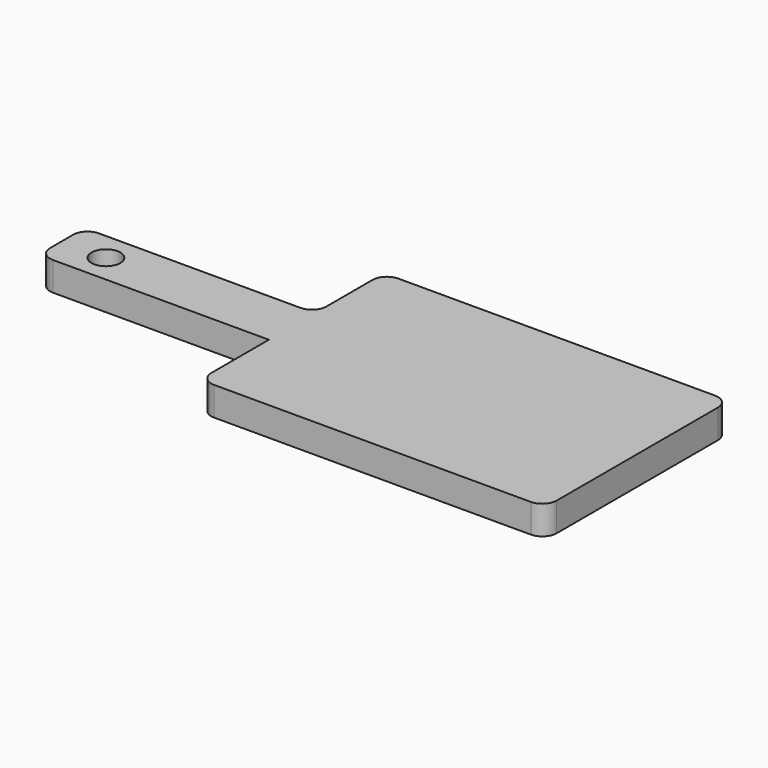
from build123d import *

# Parameters (mm, degrees)
F0_W     = 203.2
F0_H     = 50.8
F0_R     = 12.7
F1_DEPTH = 25.4
F2_R     = 12.7
F3_R     = 12.7


with BuildPart() as f1:
    # F0 (on Top) → F1 (new body)
    with BuildSketch(Plane.XY):
        Polygon((0, 76.2), (0, 0), (304.8, 0), (304.8, 203.2), (0, 203.2), (0, 127), align=None)
        with Locations((-101.6, 101.6)):
            Rectangle(F0_W, F0_H)
        with Locations((-164.072603, 101.6)):
            Circle(F0_R, mode=Mode.SUBTRACT)
    extrude(amount=F1_DEPTH)

    # F2
    f2_edges = [f1.edges().sort_by_distance(p)[0] for p in [
        (0, 127, 12.7),
        (-203.2, 127, 12.7),
        (-203.2, 76.2, 12.7),
    ]]
    fillet(f2_edges, radius=F2_R)

    # F3
    f3_edges = [f1.edges().sort_by_distance(p)[0] for p in [
        (0, 203.2, 12.7),
        (304.8, 203.2, 12.7),
        (304.8, 0, 12.7),
        (0, 0, 12.7),
    ]]
    fillet(f3_edges, radius=F3_R)


solid = f1.part
